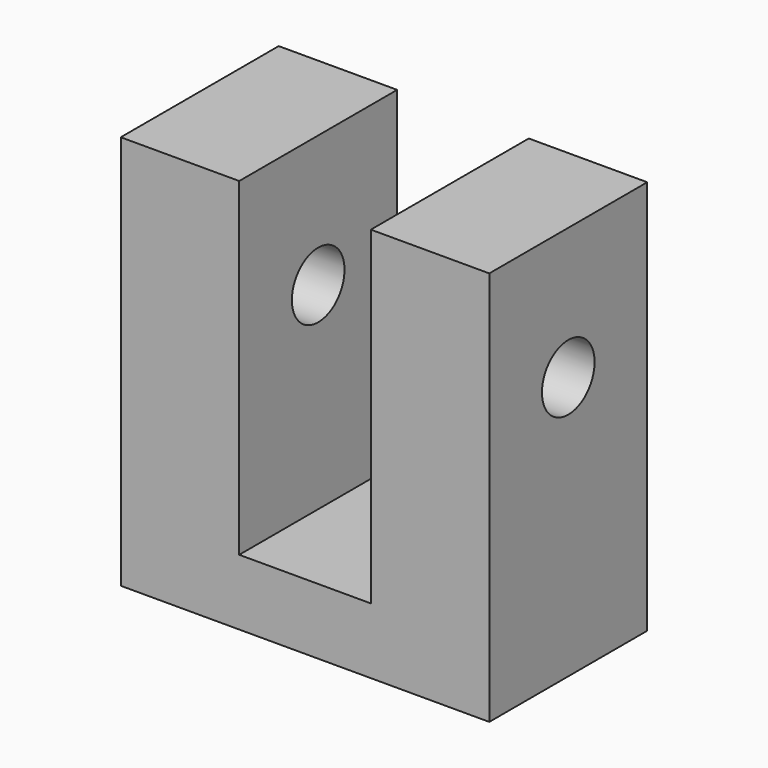
from build123d import *

# Parameters (mm, degrees)
F1_DEPTH = 19.05
F2_R     = 3.175
F3_DEPTH = 12.7
F4_R     = 3.175
F5_DEPTH = 254


with BuildPart() as f1:
    # F0 (on Front) → F1 (new body)
    with BuildSketch(Plane.XZ):
        Polygon((0, 38.1), (0, 0), (35.56, 0), (35.56, 38.1), (24.13, 38.1), (24.13, 6.35), (11.43, 6.35), (11.43, 38.1), align=None)
    extrude(amount=F1_DEPTH)

    # F2 (on face) → F3 (cut)
    with BuildSketch(Plane(origin=(0, 0, 0), x_dir=(1, 0, 0), z_dir=(0, 0, -1))):
        with Locations((5.08, 12.7)):
            Circle(F2_R)
        with Locations((30.48, 12.7)):
            Circle(F2_R)
    extrude(amount=-F3_DEPTH, mode=Mode.SUBTRACT)

    # F4 (on face) → F5 (cut)
    with BuildSketch(Plane(origin=(0, 0, 0), x_dir=(0, -1, 0), z_dir=(-1, 0, 0))):
        with Locations((9.525, 25.4)):
            Circle(F4_R)
    extrude(amount=-F5_DEPTH, mode=Mode.SUBTRACT)


solid = f1.part
